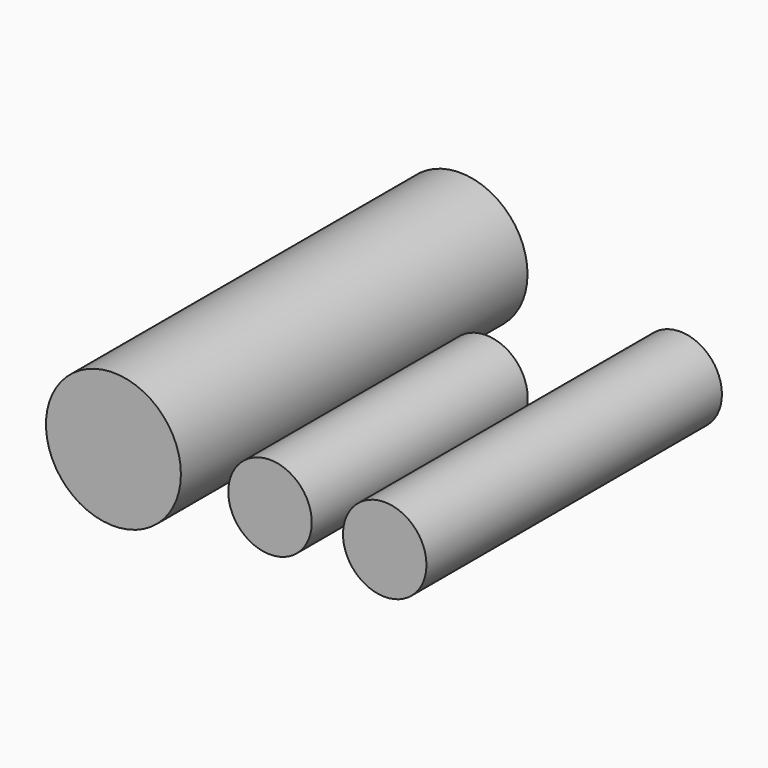
from build123d import *

# Parameters (mm, degrees)
F0_R     = 9.5
F1_DEPTH = 61
F0_R_2   = 5.875
F2_DEPTH = 38
F3_DEPTH = 52


with BuildPart() as f1:
    # F0 (on Front) → F1 (new body)
    with BuildSketch(Plane.XZ):
        with Locations((-118.448913, 0)):
            Circle(F0_R)
    extrude(amount=-F1_DEPTH)


with BuildPart() as f2:
    # F0 (on Front) → F2 (new body)
    with BuildSketch(Plane.XZ):
        with Locations((-96.402548, 0)):
            Circle(F0_R_2)
    extrude(amount=-F2_DEPTH)


with BuildPart() as f3:
    # F0 (on Front) → F3 (new body)
    with BuildSketch(Plane.XZ):
        with Locations((-80.255784, 0)):
            Circle(F0_R_2)
    extrude(amount=-F3_DEPTH)


solid = Compound([f1.part, f2.part, f3.part])
